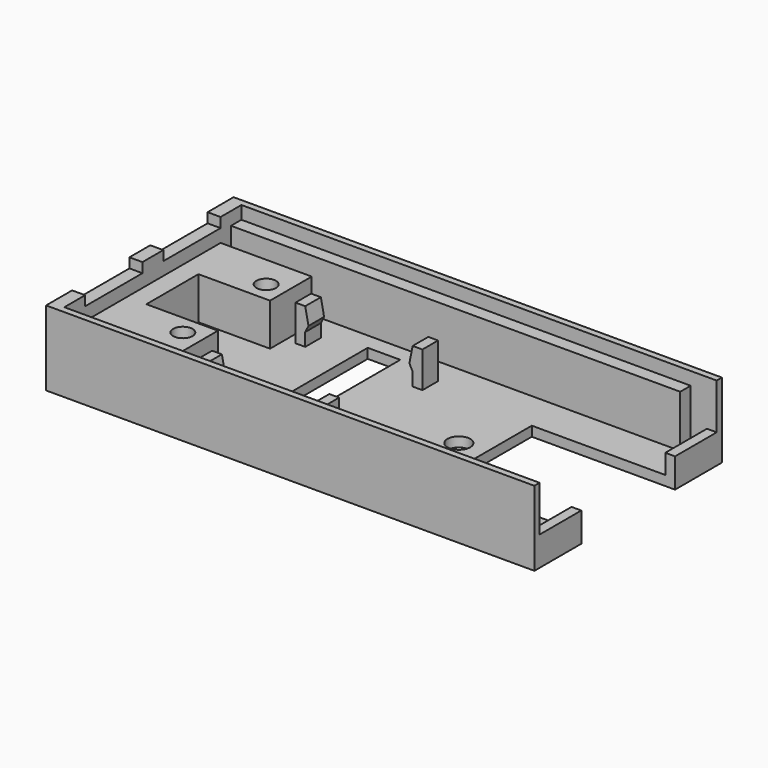
from build123d import *

# Parameters (mm, degrees)
CYLINDER002_R                        = 1.75
CYLINDER002_DEPTH                    = 19
CYLINDER003_R                        = 2.5
CYLINDER003_DEPTH                    = 4
CYLINDER004_R                        = 2.5
CYLINDER004_DEPTH                    = 4
BOX003_W                             = 71
BOX003_H                             = 2
BOX003_DEPTH                         = 8
BOX004_W                             = 1.5
BOX004_H                             = 9
BOX004_DEPTH                         = 3
BOX005_W                             = 1.5
BOX005_H                             = 9
BOX005_DEPTH                         = 3
BOX001_W                             = 75
BOX001_H                             = 1
BOX001_DEPTH                         = 10
BOX002_W                             = 71
BOX002_H                             = 2
BOX002_DEPTH                         = 8
EXTRUDE001_DEPTH                     = 2
SKETCH_W                             = 5
SKETCH_H                             = 25
EXTRUDE_DEPTH                        = 1.5
SKETCH004_R                          = 1.5
EXTRUDE003_DEPTH                     = 8
EXTRUDE008_DEPTH                     = 3
EXTRUDE008_ONTO_SKETCH007_ROLL_ANGLE = 90
EXTRUDE008_PLACEMENT_ANGLE           = 180
EXTRUDE007_DEPTH                     = 3
EXTRUDE007_ONTO_SKETCH006_ROLL_ANGLE = 90
EXTRUDE007_PLACEMENT_ANGLE           = 180
EXTRUDE006_DEPTH                     = 3
EXTRUDE006_ONTO_SKETCH006_ROLL_ANGLE = 90
EXTRUDE005_DEPTH                     = 3
EXTRUDE005_ONTO_SKETCH006_ROLL_ANGLE = 90
BOX_W                                = 75
BOX_H                                = 1
BOX_DEPTH                            = 10


with BuildPart() as cylinder002:
    # Cylinder002 → Cylinder002 (new body)
    with BuildSketch(Plane(origin=(24, 0, -8), x_dir=(1, 0, 0), z_dir=(0, 0, 1))):
        Circle(CYLINDER002_R)
    extrude(amount=CYLINDER002_DEPTH)


with BuildPart() as cylinder003:
    # Cylinder003 → Cylinder003 (new body)
    with BuildSketch(Plane(origin=(-12, -8, 0), x_dir=(1, 0, 0), z_dir=(0, 0, 1))):
        Circle(CYLINDER003_R)
    extrude(amount=CYLINDER003_DEPTH)


with BuildPart() as holesside1:
    # Cylinder004 → Cylinder004 (new body)
    with BuildSketch(Plane(origin=(-12, 8, 0), x_dir=(1, 0, 0), z_dir=(0, 0, 1))):
        Circle(CYLINDER004_R)
    extrude(amount=CYLINDER004_DEPTH)

    # Fusion005: union Cylinder002, Cylinder003
    add(cylinder002.part)
    add(cylinder003.part)


with BuildPart() as sidewall004:
    # Box003 → Box003 (new body)
    with BuildSketch(Plane(origin=(-25, 15, 1.5), x_dir=(1, 0, 0), z_dir=(0, 0, 1))):
        with Locations((35.5, 1)):
            Rectangle(BOX003_W, BOX003_H)
    extrude(amount=BOX003_DEPTH)


with BuildPart() as cube:
    # Box004 → Box004 (new body)
    with BuildSketch(Plane(origin=(48.5, 9, 1.5), x_dir=(1, 0, 0), z_dir=(0, 0, 1))):
        with Locations((0.75, 4.5)):
            Rectangle(BOX004_W, BOX004_H)
    extrude(amount=BOX004_DEPTH)


with BuildPart() as cube001:
    # Box005 → Box005 (new body)
    with BuildSketch(Plane(origin=(48.5, -18, 1.5), x_dir=(1, 0, 0), z_dir=(0, 0, 1))):
        with Locations((0.75, 4.5)):
            Rectangle(BOX005_W, BOX005_H)
    extrude(amount=BOX005_DEPTH)


with BuildPart() as sidewall002:
    # Box001 → Box001 (new body)
    with BuildSketch(Plane(origin=(-25, 17, 1.5), x_dir=(1, 0, 0), z_dir=(0, 0, 1))):
        with Locations((37.5, 0.5)):
            Rectangle(BOX001_W, BOX001_H)
    extrude(amount=BOX001_DEPTH)


with BuildPart() as sidewall003:
    # Box002 → Box002 (new body)
    with BuildSketch(Plane(origin=(-25, -17, 1.5), x_dir=(1, 0, 0), z_dir=(0, 0, 1))):
        with Locations((35.5, 1)):
            Rectangle(BOX002_W, BOX002_H)
    extrude(amount=BOX002_DEPTH)


with BuildPart() as extrude001:
    # Sketch001 → Extrude001 (new body)
    with BuildSketch(Plane.YZ):
        Polygon((-18, 0), (18, 0), (18, 10), (13, 10), (13, 8.5), (2, 8.5), (2, 10), (-2, 10), (-2, 8.5), (-13, 8.5), (-13, 10), (-18, 10), align=None)
    extrude(amount=EXTRUDE001_DEPTH)


with BuildPart() as extrude001_1:
    # Extrude001 placement: moved
    add(extrude001.part.moved(Location((-25, 0, 1.5))))


with BuildPart() as extrude_body:
    # Sketch → Extrude (new body)
    with BuildSketch(Plane.XY):
        Polygon((-25, 18), (-25, -18), (50, -18), (50, -9), (28, -9), (28, 9), (50, 9), (50, 18), align=None)
        with Locations((2.5, 0)):
            Rectangle(SKETCH_W, SKETCH_H, mode=Mode.SUBTRACT)
    extrude(amount=EXTRUDE_DEPTH)


with BuildPart() as extrude003:
    # Sketch004 → Extrude003 (new body)
    with BuildSketch(Plane.XY):
        Polygon((-3, 13), (11, 13), (11, 5), (0, 5), (0, -5), (11, -5), (11, -13), (-3, -13), align=None)
        with Locations((8, 8)):
            Circle(SKETCH004_R, mode=Mode.SUBTRACT)
        with Locations((8, -8)):
            Circle(SKETCH004_R, mode=Mode.SUBTRACT)
    extrude(amount=EXTRUDE003_DEPTH)


with BuildPart() as extrude003_1:
    # Extrude003 placement: moved
    add(extrude003.part.moved(Location((-20, 0, 0))))


with BuildPart() as extrude008:
    # Sketch007 as drawn → Extrude008 (new)
    with BuildSketch(Plane.XY):
        Polygon((0, 0), (-1.5, 0), (-1.5, 5.5), (0, 5.5), (0.5, 3), (0, 2), align=None)
    extrude(amount=EXTRUDE008_DEPTH)


with BuildPart() as extrude008_1:
    # Extrude008 onto Sketch007 roll: moved
    add(extrude008.part.rotate(Axis((0, 0, 0), (1, 0, 0)), EXTRUDE008_ONTO_SKETCH007_ROLL_ANGLE))


with BuildPart() as extrude008_2:
    # Extrude008 onto Sketch007 placement: moved
    add(extrude008_1.part)


with BuildPart() as extrude008_3:
    # Extrude008 placement: moved
    add(extrude008_2.part.moved(Location((10.5, -11, 1.5))).rotate(Axis((10.5, -11, 1.5), (0, 0, 1)), EXTRUDE008_PLACEMENT_ANGLE))


with BuildPart() as extrude007:
    # Sketch006 as drawn → Extrude007 (new)
    with BuildSketch(Plane.XY):
        Polygon((0, 0), (-1.5, 0), (-1.5, 5.5), (0, 5.5), (0.5, 3), (0, 2), align=None)
    extrude(amount=EXTRUDE007_DEPTH)


with BuildPart() as extrude007_1:
    # Extrude007 onto Sketch006 roll: moved
    add(extrude007.part.rotate(Axis((0, 0, 0), (1, 0, 0)), EXTRUDE007_ONTO_SKETCH006_ROLL_ANGLE))


with BuildPart() as extrude007_2:
    # Extrude007 onto Sketch006 placement: moved
    add(extrude007_1.part)


with BuildPart() as extrude007_3:
    # Extrude007 placement: moved
    add(extrude007_2.part.moved(Location((10.5, 8, 1.5))).rotate(Axis((10.5, 8, 1.5), (0, 0, 1)), EXTRUDE007_PLACEMENT_ANGLE))


with BuildPart() as extrude006:
    # Sketch006 as drawn → Extrude006 (new)
    with BuildSketch(Plane.XY):
        Polygon((0, 0), (-1.5, 0), (-1.5, 5.5), (0, 5.5), (0.5, 3), (0, 2), align=None)
    extrude(amount=EXTRUDE006_DEPTH)


with BuildPart() as extrude006_1:
    # Extrude006 onto Sketch006 roll: moved
    add(extrude006.part.rotate(Axis((0, 0, 0), (1, 0, 0)), EXTRUDE006_ONTO_SKETCH006_ROLL_ANGLE))


with BuildPart() as extrude006_2:
    # Extrude006 onto Sketch006 placement: moved
    add(extrude006_1.part)


with BuildPart() as extrude006_3:
    # Extrude006 placement: moved
    add(extrude006_2.part.moved(Location((-6, -8, 1.5))))


with BuildPart() as pcb_holder:
    # Sketch006 as drawn → Extrude005 (new)
    with BuildSketch(Plane.XY):
        Polygon((0, 0), (-1.5, 0), (-1.5, 5.5), (0, 5.5), (0.5, 3), (0, 2), align=None)
    extrude(amount=EXTRUDE005_DEPTH)


with BuildPart() as pcb_holder_1:
    # Extrude005 onto Sketch006 roll: moved
    add(pcb_holder.part.rotate(Axis((0, 0, 0), (1, 0, 0)), EXTRUDE005_ONTO_SKETCH006_ROLL_ANGLE))


with BuildPart() as pcb_holder_2:
    # Extrude005 onto Sketch006 placement: moved
    add(pcb_holder_1.part)


with BuildPart() as pcb_holder_3:
    # Extrude005 placement: moved
    add(pcb_holder_2.part.moved(Location((-6, 11, 1.5))))

    # Fusion007: union Extrude008, Extrude007, Extrude006
    add(extrude008_3.part)
    add(extrude007_3.part)
    add(extrude006_3.part)


with BuildPart() as obj1:
    # Box → Box (new body)
    with BuildSketch(Plane(origin=(-25, -18, 1.5), x_dir=(1, 0, 0), z_dir=(0, 0, 1))):
        with Locations((37.5, 0.5)):
            Rectangle(BOX_W, BOX_H)
    extrude(amount=BOX_DEPTH)

    # Fusion: union sidewall004, Cube, Cube001, sidewall002, sidewall003, Extrude001, Extrude body, Extrude003, pcb_holder
    add(sidewall004.part)
    add(cube.part)
    add(cube001.part)
    add(sidewall002.part)
    add(sidewall003.part)
    add(extrude001_1.part)
    add(extrude_body.part)
    add(extrude003_1.part)
    add(pcb_holder_3.part)

    # Cut001: cut HolesSide1
    add(holesside1.part, mode=Mode.SUBTRACT)


solid = obj1.part
